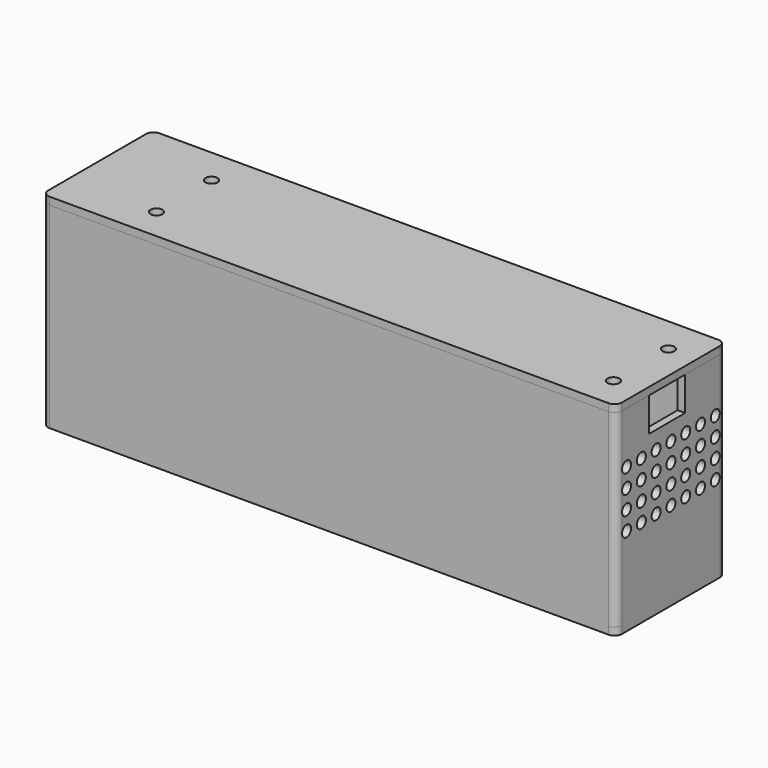
from build123d import *

# Parameters (mm, degrees)
SKETCH_R                           = 1.6
PAD_DEPTH                          = 2
SKETCH002_R                        = 4
SKETCH002_R_2                      = 10
PAD002_DEPTH                       = 2
SKETCH004_R                        = 2.25
SKETCH004_R_2                      = 1.225
PAD003_DEPTH                       = 5.5
SKETCH005_R                        = 10.000007
SKETCH005_R_2                      = 9
SKETCH005_R_3                      = 10
PAD004_DEPTH                       = 0.5
PAD005_DEPTH                       = 50.2
PAD005_DEPTH_BACK                  = 0.001
SKETCH008_R                        = 4
SKETCH008_R_2                      = 3.999993
PAD006_DEPTH                       = 0.01
PAD006_DEPTH_BACK                  = 16.5
SKETCH009_R                        = 1.55
PAD007_DEPTH                       = 0.01
PAD007_DEPTH_BACK                  = 2
SKETCH010_R                        = 1.5
POCKET_DEPTH                       = 2
SKETCH010_LINEARPATTERN_2_R        = 1.5
POCKET_LINEARPATTERN_2_DEPTH       = 2
SKETCH010_LINEARPATTERN_3_R        = 1.5
POCKET_LINEARPATTERN_3_DEPTH       = 2
SKETCH010_LINEARPATTERN_4_R        = 1.5
POCKET_LINEARPATTERN_4_DEPTH       = 2
SKETCH010_LINEARPATTERN_5_R        = 1.5
POCKET_LINEARPATTERN_5_DEPTH       = 2
SKETCH010_LINEARPATTERN_6_R        = 1.5
POCKET_LINEARPATTERN_6_DEPTH       = 2
SKETCH010_LINEARPATTERN_7_R        = 1.5
POCKET_LINEARPATTERN_7_DEPTH       = 2
LINEARPATTERN001_COUNT             = 7
LINEARPATTERN001_PITCH             = 5.25
SKETCH011_R                        = 1.5
POCKET001_DEPTH                    = 2
SKETCH011_LINEARPATTERN002_2_R     = 1.5
POCKET001_LINEARPATTERN002_2_DEPTH = 2
SKETCH011_LINEARPATTERN002_3_R     = 1.5
POCKET001_LINEARPATTERN002_3_DEPTH = 2
SKETCH011_LINEARPATTERN002_4_R     = 1.5
POCKET001_LINEARPATTERN002_4_DEPTH = 2
SKETCH011_LINEARPATTERN002_5_R     = 1.5
POCKET001_LINEARPATTERN002_5_DEPTH = 2
SKETCH011_LINEARPATTERN002_6_R     = 1.5
POCKET001_LINEARPATTERN002_6_DEPTH = 2
SKETCH011_LINEARPATTERN002_7_R     = 1.5
POCKET001_LINEARPATTERN002_7_DEPTH = 2
LINEARPATTERN003_COUNT             = 4
LINEARPATTERN003_PITCH             = 5
POCKET002_DEPTH                    = 2


with BuildPart() as case_lid:
    # Sketch (on Face1 of CopyPocket002) → Pad (new body)
    with BuildSketch(Plane.XY.offset(52.2)):
        with BuildLine():
            Line((66.25, 18.85), (-82.35, 18.85))
            ThreePointArc((-82.35, 18.85), (-83.764214, 18.264214), (-84.35, 16.85))
            Line((-84.35, 16.85), (-84.35, -15.65))
            ThreePointArc((-84.35, -15.65), (-83.764214, -17.064214), (-82.35, -17.65))
            Line((-82.35, -17.65), (66.25, -17.65))
            ThreePointArc((66.25, -17.65), (67.664214, -17.064214), (68.25, -15.65))
            Line((68.25, -15.65), (68.25, 16.85))
            ThreePointArc((68.25, 16.85), (67.664214, 18.264214), (66.25, 18.85))
        make_face()
        with Locations((60.75, -9.15)):
            Circle(SKETCH_R, mode=Mode.SUBTRACT)
        with Locations((60.75, 9.15)):
            Circle(SKETCH_R, mode=Mode.SUBTRACT)
        with Locations((-60.75, 9.15)):
            Circle(SKETCH_R, mode=Mode.SUBTRACT)
        with Locations((-60.75, -9.15)):
            Circle(SKETCH_R, mode=Mode.SUBTRACT)
    extrude(amount=PAD_DEPTH)


with BuildPart() as body001:
    # Sketch002 → Pad002 (new body)
    with BuildSketch(Plane.XY):
        with BuildLine():
            Line((68.25, -15.65), (68.25, 16.85))
            ThreePointArc((68.25, 16.85), (67.664214, 18.264214), (66.25, 18.85))
            Line((66.25, 18.85), (-67.75, 18.85))
            Line((-67.75, 18.85), (-82.35, 18.85))
            ThreePointArc((-82.35, 18.85), (-83.764214, 18.264214), (-84.35, 16.85))
            Line((-84.35, 16.85), (-84.35, -15.65))
            ThreePointArc((-84.35, -15.65), (-83.764214, -17.064214), (-82.35, -17.65))
            Line((-67.75, -17.65), (-82.35, -17.65))
            Line((-67.75, -17.65), (66.25, -17.65))
            ThreePointArc((66.25, -17.65), (67.664214, -17.064214), (68.25, -15.65))
        make_face()
        with Locations((-60.75, 9.15)):
            Circle(SKETCH002_R, mode=Mode.SUBTRACT)
        with Locations((-60.75, -9.15)):
            Circle(SKETCH002_R, mode=Mode.SUBTRACT)
        with Locations((60.75, -9.15)):
            Circle(SKETCH002_R, mode=Mode.SUBTRACT)
        with Locations((60.75, 9.15)):
            Circle(SKETCH002_R, mode=Mode.SUBTRACT)
        with Locations((12.25, 1.35)):
            Circle(SKETCH002_R_2, mode=Mode.SUBTRACT)
        with Locations((37.25, 1.35)):
            Circle(SKETCH002_R_2, mode=Mode.SUBTRACT)
        with BuildLine():
            ThreePointArc((-40.85, 10.857366), (-37.75, -8.65), (-34.65, 10.857366))
            Line((-34.65, 10.857366), (-40.85, 10.857366))
        make_face(mode=Mode.SUBTRACT)
    extrude(amount=PAD002_DEPTH)

    # Sketch004 (on Pad) → Pad003 (join)
    with BuildSketch(Plane.XY):
        with Locations((-50.25, 1.35)):
            Circle(SKETCH004_R)
        with Locations((-50.25, 1.35)):
            Circle(SKETCH004_R_2, mode=Mode.SUBTRACT)
        with Locations((-0.25, 1.35)):
            Circle(SKETCH004_R)
        with Locations((-0.25, 1.35)):
            Circle(SKETCH004_R_2, mode=Mode.SUBTRACT)
        with Locations((49.324073, -1.885238)):
            Circle(SKETCH004_R)
        with Locations((49.324073, -1.885238)):
            Circle(SKETCH004_R_2, mode=Mode.SUBTRACT)
        with Locations((24.75, 1.35)):
            Circle(SKETCH004_R)
        with Locations((24.75, 1.35)):
            Circle(SKETCH004_R_2, mode=Mode.SUBTRACT)
        with Locations((-25.25, 1.35)):
            Circle(SKETCH004_R)
        with Locations((-25.25, 1.35)):
            Circle(SKETCH004_R_2, mode=Mode.SUBTRACT)
    extrude(amount=PAD003_DEPTH)

    # Sketch005 (on Face38 of Pad003) → Pad004 (join)
    with BuildSketch(Plane(origin=(0, 0, 0), x_dir=(1, 0, 0), z_dir=(0, 0, -1))):
        with Locations((12.25, -1.35)):
            Circle(SKETCH005_R)
        with Locations((12.25, -1.35)):
            Circle(SKETCH005_R_2, mode=Mode.SUBTRACT)
        with Locations((37.25, -1.35)):
            Circle(SKETCH005_R_3)
        with Locations((37.25, -1.35)):
            Circle(SKETCH005_R_2, mode=Mode.SUBTRACT)
        with BuildLine():
            ThreePointArc((-34.65, -10.857366), (-37.75, 8.65), (-40.85, -10.857366))
            Line((-34.65, -10.857366), (-40.85, -10.857366))
        make_face()
        with Locations((-37.75, -1.35)):
            Circle(SKETCH005_R_2, mode=Mode.SUBTRACT)
    extrude(amount=-PAD004_DEPTH)

    # Sketch006 (on Face4 of Pad004) → Pad005 (join, two sides)
    with BuildSketch(Plane.XY.offset(2)) as pad005_sk:
        with BuildLine():
            Line((66.250012, -17.65), (-82.35, -17.65))
            ThreePointArc((-84.35, -15.65), (-83.764214, -17.064214), (-82.35, -17.65))
            Line((-84.35, -15.65), (-84.35, 16.85))
            ThreePointArc((-82.35, 18.85), (-83.764214, 18.264214), (-84.35, 16.85))
            Line((-82.35, 18.85), (66.25, 18.85))
            ThreePointArc((68.25, 16.85), (67.664214, 18.264214), (66.25, 18.85))
            Line((68.25, 16.85), (68.25, -15.65))
            ThreePointArc((66.250012, -17.65), (67.664218, -17.064209), (68.25, -15.65))
        make_face()
        Polygon((66.25, 16.85), (-67.75, 16.85), (-67.75, 13.85), (-69.75, 13.85), (-69.75, 16.85), (-82.35, 16.85), (-82.35, -15.65), (-69.75, -15.65), (-69.75, -12.65), (-67.75, -12.65), (-67.75, -15.65), (66.25, -15.65), align=None, mode=Mode.SUBTRACT)
    extrude(amount=PAD005_DEPTH)
    extrude(pad005_sk.sketch, amount=-PAD005_DEPTH_BACK)

    # Sketch008 (on Face45 of Pad005) → Pad006 (join, two sides)
    with BuildSketch(Plane.XY.offset(2)) as pad006_sk:
        with BuildLine():
            ThreePointArc((60.75, -3.65), (56.860913, -5.260913), (55.25, -9.15))
            Line((55.25, -9.15), (55.25, -15.65))
            Line((66.25, -15.65), (55.25, -15.65))
            Line((66.25, -3.65), (66.25, -15.65))
            Line((60.75, -3.65), (66.25, -3.65))
        make_face()
        with Locations((60.75, -9.15)):
            Circle(SKETCH008_R, mode=Mode.SUBTRACT)
        with BuildLine():
            ThreePointArc((55.25, 9.15), (56.860913, 5.260913), (60.75, 3.65))
            Line((60.75, 3.65), (66.25, 3.65))
            Line((66.25, 3.65), (66.25, 16.85))
            Line((66.25, 16.85), (55.25, 16.85))
            Line((55.25, 9.15), (55.25, 16.85))
        make_face()
        with Locations((60.75, 9.15)):
            Circle(SKETCH008_R_2, mode=Mode.SUBTRACT)
        with BuildLine():
            ThreePointArc((-66.25, 9.15), (-60.75, 3.65), (-55.25, 9.15))
            Line((-55.25, 9.15), (-55.25, 16.85))
            Line((-66.25, 16.85), (-55.25, 16.85))
            Line((-66.25, 16.85), (-66.25, 9.15))
        make_face()
        with Locations((-60.75, 9.15)):
            Circle(SKETCH008_R, mode=Mode.SUBTRACT)
        with BuildLine():
            Line((-55.25, -9.15), (-55.25, -15.65))
            Line((-55.25, -15.65), (-66.25, -15.65))
            Line((-66.25, -9.15), (-66.25, -15.65))
            ThreePointArc((-55.25, -9.15), (-60.75, -3.65), (-66.25, -9.15))
        make_face()
        with Locations((-60.75, -9.15)):
            Circle(SKETCH008_R, mode=Mode.SUBTRACT)
    extrude(amount=-PAD006_DEPTH)
    extrude(pad006_sk.sketch, amount=PAD006_DEPTH_BACK)

    # Sketch009 (on Face45 of Pad006) → Pad007 (join, two sides)
    with BuildSketch(Plane.XY.offset(18.5)) as pad007_sk:
        with BuildLine():
            Line((-66.25, -15.65), (-55.25, -15.65))
            Line((-55.25, -15.65), (-55.25, -9.15))
            ThreePointArc((-55.25, -9.15), (-60.75, -3.65), (-66.25, -9.15))
            Line((-66.25, -15.65), (-66.25, -9.15))
        make_face()
        with Locations((-60.75, -9.15)):
            Circle(SKETCH009_R, mode=Mode.SUBTRACT)
        with BuildLine():
            Line((-66.25, 16.85), (-55.25, 16.85))
            Line((-55.25, 9.15), (-55.25, 16.85))
            ThreePointArc((-66.25, 9.15), (-60.75, 3.650008), (-55.25, 9.15))
            Line((-66.25, 9.15), (-66.25, 16.85))
        make_face()
        with Locations((-60.75, 9.15)):
            Circle(SKETCH009_R, mode=Mode.SUBTRACT)
        with BuildLine():
            Line((55.25, -15.65), (55.25, -9.15))
            ThreePointArc((60.75, -3.65), (56.860913, -5.260913), (55.25, -9.15))
            Line((60.75, -3.65), (66.25, -3.65))
            Line((66.25, -3.65), (66.25, -15.65))
            Line((66.25, -15.65), (55.25, -15.65))
        make_face()
        with Locations((60.75, -9.15)):
            Circle(SKETCH009_R, mode=Mode.SUBTRACT)
        with BuildLine():
            Line((60.75, 3.65), (66.25, 3.650007))
            Line((66.25, 3.650007), (66.25, 16.85))
            Line((55.25, 16.85), (66.25, 16.85))
            Line((55.25, 9.149993), (55.25, 16.85))
            ThreePointArc((55.25, 9.149993), (56.860913, 5.260908), (60.75, 3.65))
        make_face()
        with Locations((60.75, 9.15)):
            Circle(SKETCH009_R, mode=Mode.SUBTRACT)
    extrude(amount=-PAD007_DEPTH)
    extrude(pad007_sk.sketch, amount=PAD007_DEPTH_BACK)

    # Sketch010 (on Face52 of Pad005) → Pocket (cut)
    with BuildSketch(Plane(origin=(-84.35, 0, 0), x_dir=(0, -1, 0), z_dir=(-1, 0, 0))):
        with Locations((-15.35, 3.5)):
            Circle(SKETCH010_R)
    pocket = extrude(amount=-POCKET_DEPTH, mode=Mode.SUBTRACT)

    # Sketch010 LinearPattern 2 → Pocket LinearPattern 2 (cut)
    with BuildSketch(Plane(origin=(-84.35, -4.916667, 0), x_dir=(0, -1, 0), z_dir=(-1, 0, 0))):
        with Locations((-15.35, 3.5)):
            Circle(SKETCH010_LINEARPATTERN_2_R)
    pocket_linearpattern_2 = extrude(amount=-POCKET_LINEARPATTERN_2_DEPTH, mode=Mode.SUBTRACT)

    # Sketch010 LinearPattern 3 → Pocket LinearPattern 3 (cut)
    with BuildSketch(Plane(origin=(-84.35, -9.833333, 0), x_dir=(0, -1, 0), z_dir=(-1, 0, 0))):
        with Locations((-15.35, 3.5)):
            Circle(SKETCH010_LINEARPATTERN_3_R)
    pocket_linearpattern_3 = extrude(amount=-POCKET_LINEARPATTERN_3_DEPTH, mode=Mode.SUBTRACT)

    # Sketch010 LinearPattern 4 → Pocket LinearPattern 4 (cut)
    with BuildSketch(Plane(origin=(-84.35, -14.75, 0), x_dir=(0, -1, 0), z_dir=(-1, 0, 0))):
        with Locations((-15.35, 3.5)):
            Circle(SKETCH010_LINEARPATTERN_4_R)
    pocket_linearpattern_4 = extrude(amount=-POCKET_LINEARPATTERN_4_DEPTH, mode=Mode.SUBTRACT)

    # Sketch010 LinearPattern 5 → Pocket LinearPattern 5 (cut)
    with BuildSketch(Plane(origin=(-84.35, -19.666667, 0), x_dir=(0, -1, 0), z_dir=(-1, 0, 0))):
        with Locations((-15.35, 3.5)):
            Circle(SKETCH010_LINEARPATTERN_5_R)
    pocket_linearpattern_5 = extrude(amount=-POCKET_LINEARPATTERN_5_DEPTH, mode=Mode.SUBTRACT)

    # Sketch010 LinearPattern 6 → Pocket LinearPattern 6 (cut)
    with BuildSketch(Plane(origin=(-84.35, -24.583333, 0), x_dir=(0, -1, 0), z_dir=(-1, 0, 0))):
        with Locations((-15.35, 3.5)):
            Circle(SKETCH010_LINEARPATTERN_6_R)
    pocket_linearpattern_6 = extrude(amount=-POCKET_LINEARPATTERN_6_DEPTH, mode=Mode.SUBTRACT)

    # Sketch010 LinearPattern 7 → Pocket LinearPattern 7 (cut)
    with BuildSketch(Plane(origin=(-84.35, -29.5, 0), x_dir=(0, -1, 0), z_dir=(-1, 0, 0))):
        with Locations((-15.35, 3.5)):
            Circle(SKETCH010_LINEARPATTERN_7_R)
    pocket_linearpattern_7 = extrude(amount=-POCKET_LINEARPATTERN_7_DEPTH, mode=Mode.SUBTRACT)

    # LinearPattern001: Pocket, Pocket LinearPattern 2, Pocket LinearPattern 3, Pocket LinearPattern 4, Pocket LinearPattern 5, Pocket LinearPattern 6, Pocket LinearPattern 7 ×7
    with Locations(*[(0, 0, i * LINEARPATTERN001_PITCH) for i in range(1, LINEARPATTERN001_COUNT)]):
        add(pocket, mode=Mode.SUBTRACT)
        add(pocket_linearpattern_2, mode=Mode.SUBTRACT)
        add(pocket_linearpattern_3, mode=Mode.SUBTRACT)
        add(pocket_linearpattern_4, mode=Mode.SUBTRACT)
        add(pocket_linearpattern_5, mode=Mode.SUBTRACT)
        add(pocket_linearpattern_6, mode=Mode.SUBTRACT)
        add(pocket_linearpattern_7, mode=Mode.SUBTRACT)

    # Sketch011 (on Face8 of MultiTransform) → Pocket001 (cut)
    with BuildSketch(Plane.YZ.offset(68.25)):
        with Locations((-14.15, 23.5)):
            Circle(SKETCH011_R)
    pocket001 = extrude(amount=-POCKET001_DEPTH, mode=Mode.SUBTRACT)

    # Sketch011 LinearPattern002 2 → Pocket001 LinearPattern002 2 (cut)
    with BuildSketch(Plane(origin=(68.25, 4.916667, 0), x_dir=(0, 1, 0), z_dir=(1, 0, 0))):
        with Locations((-14.15, 23.5)):
            Circle(SKETCH011_LINEARPATTERN002_2_R)
    pocket001_linearpattern002_2 = extrude(amount=-POCKET001_LINEARPATTERN002_2_DEPTH, mode=Mode.SUBTRACT)

    # Sketch011 LinearPattern002 3 → Pocket001 LinearPattern002 3 (cut)
    with BuildSketch(Plane(origin=(68.25, 9.833333, 0), x_dir=(0, 1, 0), z_dir=(1, 0, 0))):
        with Locations((-14.15, 23.5)):
            Circle(SKETCH011_LINEARPATTERN002_3_R)
    pocket001_linearpattern002_3 = extrude(amount=-POCKET001_LINEARPATTERN002_3_DEPTH, mode=Mode.SUBTRACT)

    # Sketch011 LinearPattern002 4 → Pocket001 LinearPattern002 4 (cut)
    with BuildSketch(Plane(origin=(68.25, 14.75, 0), x_dir=(0, 1, 0), z_dir=(1, 0, 0))):
        with Locations((-14.15, 23.5)):
            Circle(SKETCH011_LINEARPATTERN002_4_R)
    pocket001_linearpattern002_4 = extrude(amount=-POCKET001_LINEARPATTERN002_4_DEPTH, mode=Mode.SUBTRACT)

    # Sketch011 LinearPattern002 5 → Pocket001 LinearPattern002 5 (cut)
    with BuildSketch(Plane(origin=(68.25, 19.666667, 0), x_dir=(0, 1, 0), z_dir=(1, 0, 0))):
        with Locations((-14.15, 23.5)):
            Circle(SKETCH011_LINEARPATTERN002_5_R)
    pocket001_linearpattern002_5 = extrude(amount=-POCKET001_LINEARPATTERN002_5_DEPTH, mode=Mode.SUBTRACT)

    # Sketch011 LinearPattern002 6 → Pocket001 LinearPattern002 6 (cut)
    with BuildSketch(Plane(origin=(68.25, 24.583333, 0), x_dir=(0, 1, 0), z_dir=(1, 0, 0))):
        with Locations((-14.15, 23.5)):
            Circle(SKETCH011_LINEARPATTERN002_6_R)
    pocket001_linearpattern002_6 = extrude(amount=-POCKET001_LINEARPATTERN002_6_DEPTH, mode=Mode.SUBTRACT)

    # Sketch011 LinearPattern002 7 → Pocket001 LinearPattern002 7 (cut)
    with BuildSketch(Plane(origin=(68.25, 29.5, 0), x_dir=(0, 1, 0), z_dir=(1, 0, 0))):
        with Locations((-14.15, 23.5)):
            Circle(SKETCH011_LINEARPATTERN002_7_R)
    pocket001_linearpattern002_7 = extrude(amount=-POCKET001_LINEARPATTERN002_7_DEPTH, mode=Mode.SUBTRACT)

    # LinearPattern003: Pocket001, Pocket001 LinearPattern002 2, Pocket001 LinearPattern002 3, Pocket001 LinearPattern002 4, Pocket001 LinearPattern002 5, Pocket001 LinearPattern002 6, Pocket001 LinearPattern002 7 ×4
    with Locations(*[(0, 0, i * LINEARPATTERN003_PITCH) for i in range(1, LINEARPATTERN003_COUNT)]):
        add(pocket001, mode=Mode.SUBTRACT)
        add(pocket001_linearpattern002_2, mode=Mode.SUBTRACT)
        add(pocket001_linearpattern002_3, mode=Mode.SUBTRACT)
        add(pocket001_linearpattern002_4, mode=Mode.SUBTRACT)
        add(pocket001_linearpattern002_5, mode=Mode.SUBTRACT)
        add(pocket001_linearpattern002_6, mode=Mode.SUBTRACT)
        add(pocket001_linearpattern002_7, mode=Mode.SUBTRACT)

    # Sketch012 (on Face8 of MultiTransform001) → Pocket002 (cut)
    with BuildSketch(Plane.YZ.offset(68.25)):
        Polygon((-6.65, 49.2), (-6.65, 43.2), (5.35, 43.2), (5.35, 49.2), (5.35, 52.2), (-6.65, 52.2), align=None)
    extrude(amount=-POCKET002_DEPTH, mode=Mode.SUBTRACT)


solid = Compound([case_lid.part, body001.part])
